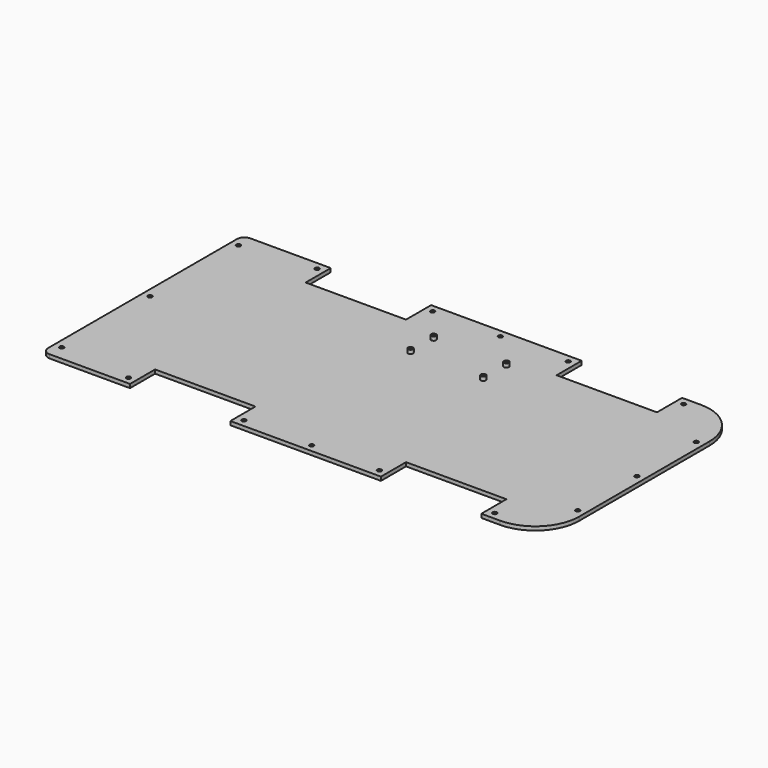
from build123d import *

# Parameters (mm, degrees)
F1_DEPTH       = 3
F2_R           = 2
F3_DEPTH       = 3
F5_D           = 2.15
F5_DEPTH       = 3
F5_TIP         = 0.6459251655
F7_D           = 3.4
F7_CSINK_D     = 6.72
F7_CSINK_ANGLE = 90


with BuildPart() as f1:
    # F0 (on Top) → F1 (new body)
    with BuildSketch(Plane.XY):
        with BuildLine():
            Line((-130, 100), (-194, 100))
            ThreePointArc((-194, 100), (-198.2426406871, 98.2426406871), (-200, 94))
            Line((-200, 94), (-200, 0))
            Line((-200, 0), (-200, -94))
            ThreePointArc((-200, -94), (-198.2426406871, -98.2426406871), (-194, -100))
            Line((-194, -100), (-130, -100))
            Line((-130, -100), (-130, -75))
            Line((-130, -75), (-50, -75))
            Line((-50, -75), (-50, -100))
            Line((-50, -100), (70, -100))
            Line((70, -100), (70, -75))
            Line((70, -75), (150, -75))
            Line((150, -75), (150, -100))
            Line((150, -100), (165, -100))
            ThreePointArc((165, -100), (189.7487373415, -89.7487373415), (200, -65))
            Line((200, -65), (200, 0))
            Line((200, 0), (200, 65))
            ThreePointArc((200, 65), (189.7487373415, 89.7487373415), (165, 100))
            Line((165, 100), (150, 100))
            Line((150, 100), (150, 75))
            Line((150, 75), (70, 75))
            Line((70, 75), (70, 100))
            Line((70, 100), (-50, 100))
            Line((-50, 100), (-50, 75))
            Line((-50, 75), (-130, 75))
            Line((-130, 75), (-130, 100))
        make_face()
    extrude(amount=F1_DEPTH)

    # F2 (on face) → F3 (join)
    with BuildSketch(Plane.XY.offset(3)):
        with Locations((38, 42)):
            Circle(F2_R)
        with Locations((38, 65)):
            Circle(F2_R)
        with Locations((-20, 42)):
            Circle(F2_R)
        with Locations((-20, 65)):
            Circle(F2_R)
    extrude(amount=F3_DEPTH)

    # F5
    with Locations(Plane.XY.offset(6)):
        with Locations((-20, 42), (-20, 65), (38, 65), (38, 42)):
            Hole(F5_D / 2, depth=F5_DEPTH)
            with Locations((0, 0, -(F5_DEPTH + F5_TIP / 2))):  # 118° drill point
                Cone(0, F5_D / 2, F5_TIP, mode=Mode.SUBTRACT)

    # F7 (through all)
    with Locations(Plane(origin=(0, 0, 0), x_dir=(1, 0, 0), z_dir=(0, 0, -1))):
        with Locations((-136, -94), (-194, -88), (-194, 88), (-136, 94), (-44, 94), (10, 94), (64, 94), (156, 94), (194, 59), (194, 0), (194, -59), (156, -94), (64, -94), (10, -94), (-44, -94), (-194, 0)):
            CounterSinkHole(F7_D / 2, F7_CSINK_D / 2, counter_sink_angle=F7_CSINK_ANGLE)


solid = f1.part
